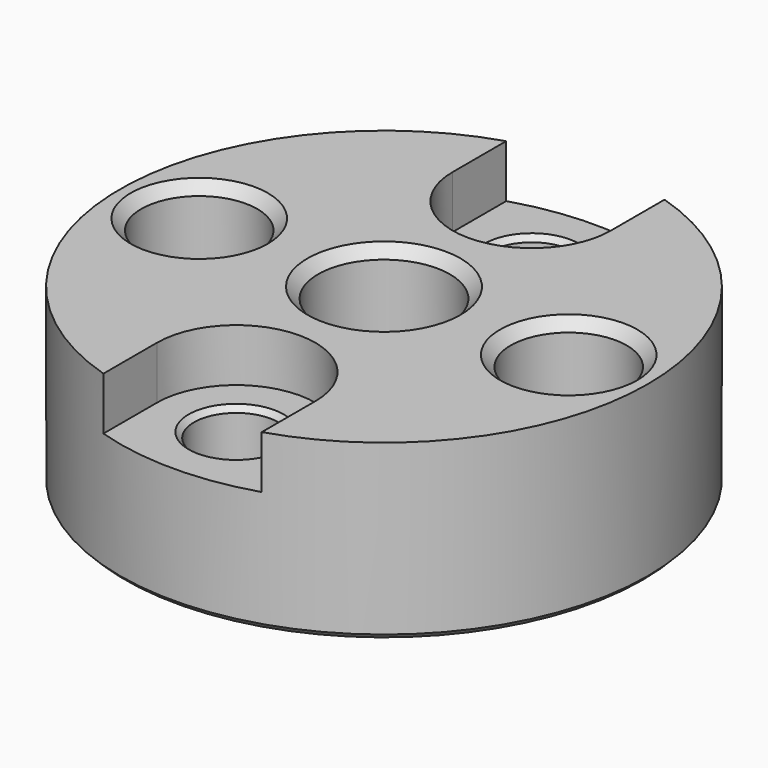
from build123d import *

# Parameters (mm, degrees)
SKETCH085_R     = 10
SKETCH085_R_2   = 1.6
SKETCH085_R_3   = 2.2
SKETCH085_R_4   = 2.5
PAD046_DEPTH    = 6.6
POCKET005_DEPTH = 2
CHAMFER002_SIZE = 0.2
CHAMFER003_SIZE = 0.4
CHAMFER004_SIZE = 0.2


with BuildPart() as part:
    # Sketch085 → Pad046 (new body)
    with BuildSketch(Plane.XY):
        Circle(SKETCH085_R)
        with Locations((0, 7)):
            Circle(SKETCH085_R_2, mode=Mode.SUBTRACT)
        with Locations((7, 0)):
            Circle(SKETCH085_R_3, mode=Mode.SUBTRACT)
        with Locations((0, -7)):
            Circle(SKETCH085_R_2, mode=Mode.SUBTRACT)
        with Locations((-7, 0)):
            Circle(SKETCH085_R_3, mode=Mode.SUBTRACT)
        Circle(SKETCH085_R_4, mode=Mode.SUBTRACT)
    extrude(amount=-PAD046_DEPTH)

    # Sketch086 → Pocket005 (cut)
    with BuildSketch(Plane.XY):
        with BuildLine():
            ThreePointArc((-3, 7), (0, 4), (3, 7))
            Line((3, 7), (3, 10))
            ThreePointArc((3, 10), (0, 13), (-3, 10))
            Line((-3, 10), (-3, 7))
        make_face()
        with BuildLine():
            ThreePointArc((3, -7), (0, -4), (-3, -7))
            Line((-3, -7), (-3, -10))
            ThreePointArc((-3, -10), (0, -13), (3, -10))
            Line((3, -10), (3, -7))
        make_face()
    extrude(amount=-POCKET005_DEPTH, mode=Mode.SUBTRACT)

    # Chamfer002
    chamfer002_edges = [part.edges().sort_by_distance(p)[0] for p in [
        (-1.6, 7, -2),
        (-1.6, -7, -2),
    ]]
    chamfer(chamfer002_edges, length=CHAMFER002_SIZE)

    # Chamfer003
    chamfer003_edges = [part.edges().sort_by_distance(p)[0] for p in [
        (4.8, 0, 0),
        (-9.2, 0, 0),
        (-2.5, 0, 0),
        (-1.6, 7, -6.6),
        (-2.5, 0, -6.6),
        (4.8, 0, -6.6),
        (-1.6, -7, -6.6),
        (-9.2, 0, -6.6),
    ]]
    chamfer(chamfer003_edges, length=CHAMFER003_SIZE)

    # Chamfer004
    chamfer004_edges = [part.edges().sort_by_distance(p)[0] for p in [
        (-10, 0, -6.6),
    ]]
    chamfer(chamfer004_edges, length=CHAMFER004_SIZE)


solid = part.part
